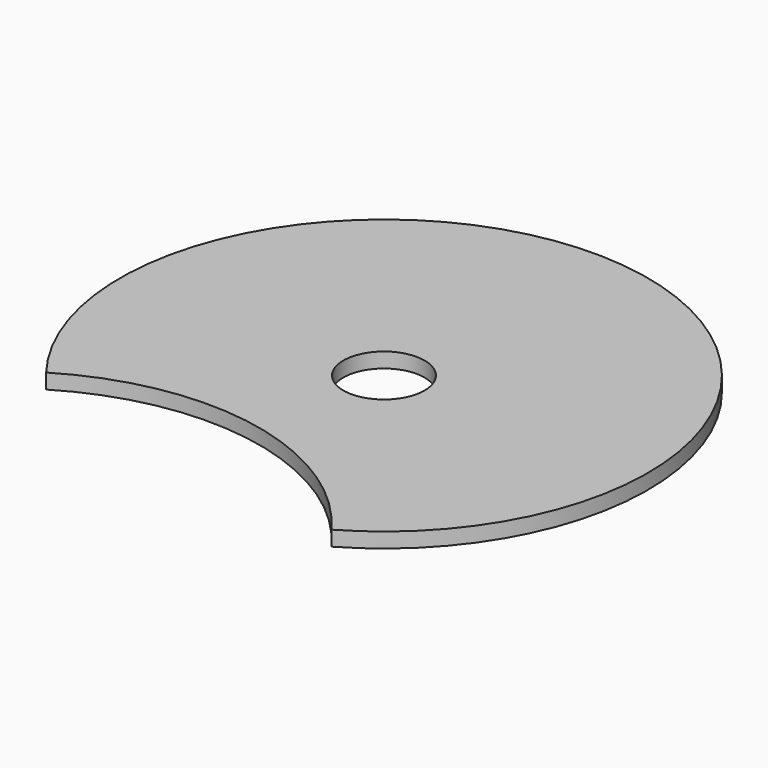
from build123d import *

# Parameters (mm, degrees)
F0_R     = 6.4516
F1_DEPTH = 2.38125


with BuildPart() as f1:
    # F0 (on Top) → F1 (new body)
    with BuildSketch(Plane.XY):
        with BuildLine():
            ThreePointArc((-33.217766, -25.554415), (-4.11186, -20.448659), (20.758226, -36.408023))
            ThreePointArc((20.758226, -36.408023), (8.261976, 41.087563), (-33.217766, -25.554415))
        make_face()
        Circle(F0_R, mode=Mode.SUBTRACT)
    extrude(amount=F1_DEPTH)


solid = f1.part
